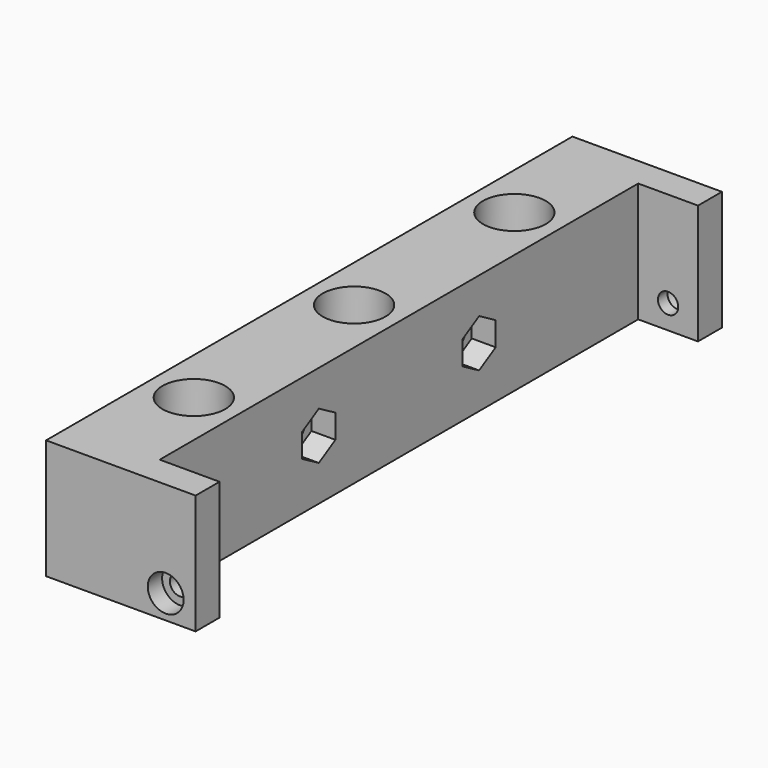
from build123d import *

# Parameters (mm, degrees)
PAD001_DEPTH              = 4
BODY001_PLACEMENT_ANGLE   = 90
PAD_DEPTH                 = 4
BODY_PLACEMENT_ANGLE      = 90
CYLINDER011_R             = 2.25
CYLINDER011_DEPTH         = 15
CYLINDER010_R             = 4
CYLINDER010_DEPTH         = 4
CYLINDER009_R             = 2.25
CYLINDER009_DEPTH         = 15
CYLINDER008_R             = 4
CYLINDER008_DEPTH         = 4
CYLINDER007_R             = 1.7
CYLINDER007_DEPTH         = 15
CYLINDER006_R             = 3
CYLINDER006_DEPTH         = 3
FUSION003_PLACEMENT_ANGLE = 270
CYLINDER005_R             = 1.7
CYLINDER005_DEPTH         = 15
CYLINDER004_R             = 3
CYLINDER004_DEPTH         = 3
FUSION002_PLACEMENT_ANGLE = 90
CYLINDER001_R             = 5.25
CYLINDER001_DEPTH         = 7
CYLINDER_R                = 3.3
CYLINDER_DEPTH            = 20
ARRAY001_Y_COUNT          = 3
ARRAY001_Y_PITCH          = 33.5
BOX002_W                  = 10
BOX002_H                  = 100
BOX002_DEPTH              = 20
BOX001_W                  = 25
BOX001_H                  = 110
BOX001_DEPTH              = 20


with BuildPart() as body001:
    # Sketch001 → Pad001 (new body)
    with BuildSketch(Plane.XY):
        Polygon((4, 0), (2, 3.464102), (-2, 3.464102), (-4, 0), (-2, -3.464102), (2, -3.464102), align=None)
    extrude(amount=PAD001_DEPTH)


with BuildPart() as body001_1:
    # Body001 placement: moved
    add(body001.part.moved(Location((11, 71.75, 10))).rotate(Axis((11, 71.75, 10), (0, 1, 0)), BODY001_PLACEMENT_ANGLE))


with BuildPart() as fusion008:
    # Sketch → Pad (new body)
    with BuildSketch(Plane.XY):
        Polygon((4, 0), (2, 3.464102), (-2, 3.464102), (-4, 0), (-2, -3.464102), (2, -3.464102), align=None)
    extrude(amount=PAD_DEPTH)


with BuildPart() as fusion008_1:
    # Body placement: moved
    add(fusion008.part.moved(Location((11, 38.25, 10))).rotate(Axis((11, 38.25, 10), (0, 1, 0)), BODY_PLACEMENT_ANGLE))

    # Fusion008: union Body001
    add(body001_1.part)


with BuildPart() as cylinder011:
    # Cylinder011 → Cylinder011 (new body)
    with BuildSketch(Plane(origin=(0, 0, 0), x_dir=(0, 0, -1), z_dir=(1, 0, 0))):
        Circle(CYLINDER011_R)
    extrude(amount=CYLINDER011_DEPTH)


with BuildPart() as obj1:
    # Cylinder010 → Cylinder010 (new body)
    with BuildSketch(Plane(origin=(0, 0, 0), x_dir=(0, 0, -1), z_dir=(1, 0, 0))):
        Circle(CYLINDER010_R)
    extrude(amount=CYLINDER010_DEPTH)

    # Fusion006: union Cylinder011
    add(cylinder011.part)


with BuildPart() as obj1_1:
    # Fusion006 placement: moved
    add(obj1.part.moved(Location((0, 71.75, 10))))


with BuildPart() as cylinder009:
    # Cylinder009 → Cylinder009 (new body)
    with BuildSketch(Plane(origin=(0, 0, 0), x_dir=(0, 0, -1), z_dir=(1, 0, 0))):
        Circle(CYLINDER009_R)
    extrude(amount=CYLINDER009_DEPTH)


with BuildPart() as fusion007:
    # Cylinder008 → Cylinder008 (new body)
    with BuildSketch(Plane(origin=(0, 0, 0), x_dir=(0, 0, -1), z_dir=(1, 0, 0))):
        Circle(CYLINDER008_R)
    extrude(amount=CYLINDER008_DEPTH)

    # Fusion005: union Cylinder009
    add(cylinder009.part)


with BuildPart() as fusion007_1:
    # Fusion005 placement: moved
    add(fusion007.part.moved(Location((0, 38.25, 10))))

    # Fusion007: union obj1
    add(obj1_1.part)


with BuildPart() as cylinder007:
    # Cylinder007 → Cylinder007 (new body)
    with BuildSketch(Plane.XY):
        Circle(CYLINDER007_R)
    extrude(amount=CYLINDER007_DEPTH)


with BuildPart() as obj2:
    # Cylinder006 → Cylinder006 (new body)
    with BuildSketch(Plane.XY.offset(12)):
        Circle(CYLINDER006_R)
    extrude(amount=CYLINDER006_DEPTH)

    # Fusion003: union Cylinder007
    add(cylinder007.part)


with BuildPart() as obj2_1:
    # Fusion003 placement: moved
    add(obj2.part.moved(Location((20, 95, 4))).rotate(Axis((20, 95, 4), (1, 0, 0)), FUSION003_PLACEMENT_ANGLE))


with BuildPart() as cylinder005:
    # Cylinder005 → Cylinder005 (new body)
    with BuildSketch(Plane.XY):
        Circle(CYLINDER005_R)
    extrude(amount=CYLINDER005_DEPTH)


with BuildPart() as fusion004:
    # Cylinder004 → Cylinder004 (new body)
    with BuildSketch(Plane.XY.offset(12)):
        Circle(CYLINDER004_R)
    extrude(amount=CYLINDER004_DEPTH)

    # Fusion002: union Cylinder005
    add(cylinder005.part)


with BuildPart() as fusion004_1:
    # Fusion002 placement: moved
    add(fusion004.part.moved(Location((20, 15, 4))).rotate(Axis((20, 15, 4), (1, 0, 0)), FUSION002_PLACEMENT_ANGLE))

    # Fusion004: union obj2
    add(obj2_1.part)


with BuildPart() as cylinder001:
    # Cylinder001 → Cylinder001 (new body)
    with BuildSketch(Plane.XY.offset(13)):
        Circle(CYLINDER001_R)
    extrude(amount=CYLINDER001_DEPTH)


with BuildPart() as array001:
    # Cylinder → Cylinder (new body)
    with BuildSketch(Plane.XY):
        Circle(CYLINDER_R)
    extrude(amount=CYLINDER_DEPTH)

    # Fusion: union Cylinder001
    add(cylinder001.part)


with BuildPart() as array001_1:
    # Fusion placement: moved
    add(array001.part.moved(Location((7.5, 0, 0))))

    # Array001 Y: Array001 ×3


with BuildPart() as array001_2:
    add(array001_1.part)
    with Locations(*[(0, i * ARRAY001_Y_PITCH, 0) for i in range(1, ARRAY001_Y_COUNT)]):
        add(array001_1.part)


with BuildPart() as array001_3:
    # Array001 placement: moved
    add(array001_2.part.moved(Location((0, 21.5, 0))))


with BuildPart() as cube002:
    # Box002 → Box002 (new body)
    with BuildSketch(Plane(origin=(15, 5, 0), x_dir=(1, 0, 0), z_dir=(0, 0, 1))):
        with Locations((5, 50)):
            Rectangle(BOX002_W, BOX002_H)
    extrude(amount=BOX002_DEPTH)


with BuildPart() as variablechuck:
    # Box001 → Box001 (new body)
    with BuildSketch(Plane.XY):
        with Locations((12.5, 55)):
            Rectangle(BOX001_W, BOX001_H)
    extrude(amount=BOX001_DEPTH)

    # Cut: cut Cube002
    add(cube002.part, mode=Mode.SUBTRACT)

    # Cut001: cut Array001
    add(array001_3.part, mode=Mode.SUBTRACT)

    # Cut004: cut Fusion004
    add(fusion004_1.part, mode=Mode.SUBTRACT)

    # Cut005: cut Fusion007
    add(fusion007_1.part, mode=Mode.SUBTRACT)

    # Cut006: cut Fusion008
    add(fusion008_1.part, mode=Mode.SUBTRACT)


solid = variablechuck.part
